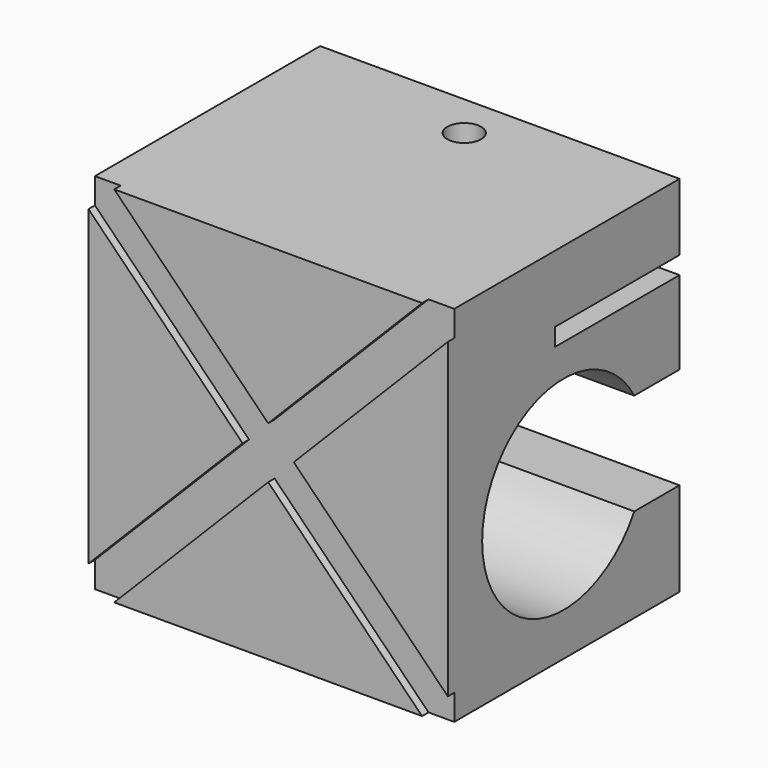
from build123d import *

# Parameters (mm, degrees)
F0_W      = 670
F0_H      = 678
F1_DEPTH  = 540
F2_R      = 31.5
F3_DEPTH  = 125
F4_W      = 290
F4_H      = 33
F5_DEPTH  = 670
F6_R      = 190
F7_DEPTH  = 670
F8_W      = 105.455173281
F8_H      = 190
F9_DEPTH  = 670
F11_DEPTH = 15


with BuildPart() as f1:
    # F0 (on Front) → F1 (new body)
    with BuildSketch(Plane.XZ):
        with Locations((1.9415970892, 64.8658148712)):
            Rectangle(F0_W, F0_H)
    extrude(amount=-F1_DEPTH)

    # F2 (on face) → F3 (cut)
    with BuildSketch(Plane.XY.offset(403.8658148712)):
        with Locations((1.9415970892, 457)):
            Circle(F2_R)
    extrude(amount=-F3_DEPTH, mode=Mode.SUBTRACT)

    # F4 (on face) → F5 (cut)
    with BuildSketch(Plane.YZ.offset(336.9415970892)):
        with Locations((395, 262.3658148712)):
            Rectangle(F4_W, F4_H)
    extrude(amount=-F5_DEPTH, mode=Mode.SUBTRACT)

    # F6 (on face) → F7 (cut)
    with BuildSketch(Plane.YZ.offset(336.9415970892)):
        with Locations((270, -4.1341851288)):
            Circle(F6_R)
    extrude(amount=-F7_DEPTH, mode=Mode.SUBTRACT)

    # F8 (on face) → F9 (cut)
    with BuildSketch(Plane.YZ.offset(336.9415970892)):
        with Locations((487.2724133595, -4.1341851288)):
            Rectangle(F8_W, F8_H)
    extrude(amount=-F9_DEPTH, mode=Mode.SUBTRACT)

    # F10 (on face) → F11 (cut)
    with BuildSketch(Plane.XZ):
        Polygon((-285.0584029108, 403.8658148712), (-333.0584029108, 403.8658148712), (-333.0584029108, 355.8658148712), (-45.7536410061, 64.8658148712), (-333.0584029108, -226.1341851288), (-333.0584029108, -274.1341851288), (-285.0584029108, -274.1341851288), (1.9415970892, 16.5571331991), (288.9415970892, -274.1341851288), (336.9415970892, -274.1341851288), (336.9415970892, -226.1341851288), (49.6368351844, 64.8658148712), (336.9415970892, 355.8658148712), (336.9415970892, 403.8658148712), (288.9415970892, 403.8658148712), (1.9415970892, 113.1744965432), align=None)
    extrude(amount=-F11_DEPTH, mode=Mode.SUBTRACT)


solid = f1.part
